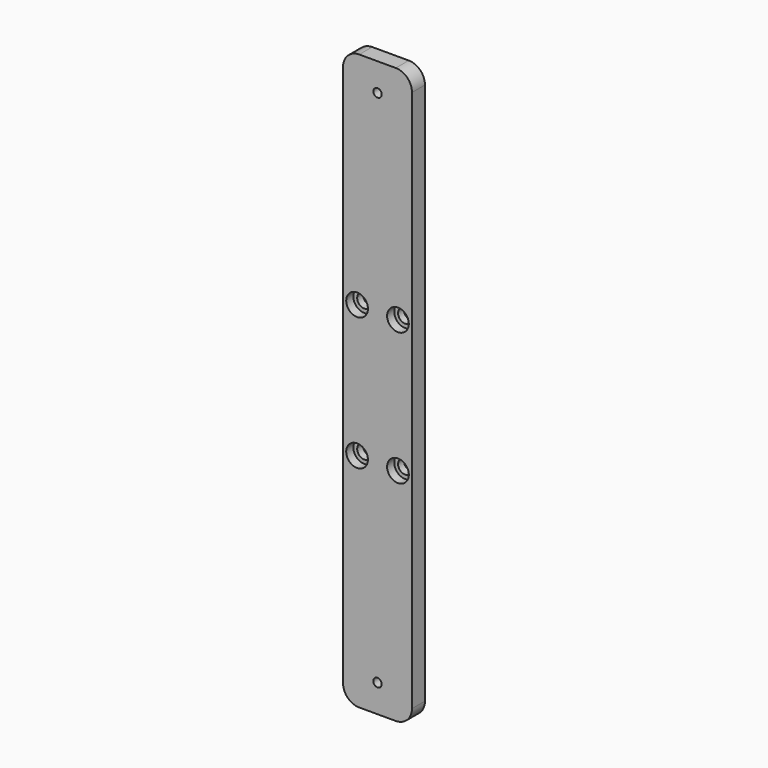
from build123d import *

# Parameters (mm, degrees)
F0_W           = 27
F0_H           = 225
F1_DEPTH       = 6.35
F2_R           = 6.35
F4_D           = 5.5
F4_CBORE_D     = 8.5
F4_CBORE_DEPTH = 3.5
F6_D           = 3.3


with BuildPart() as f1:
    # F0 (on Front) → F1 (new body)
    with BuildSketch(Plane.XZ):
        Rectangle(F0_W, F0_H)
    extrude(amount=F1_DEPTH)

    # F2
    f2_edges = [f1.edges().sort_by_distance(p)[0] for p in [
        (13.5, -3.175, 112.5),
        (-13.5, -3.175, 112.5),
        (13.5, -3.175, -112.5),
        (-13.5, -3.175, -112.5),
    ]]
    fillet(f2_edges, radius=F2_R)

    # F4 (through all)
    with Locations(Plane.XZ.offset(6.35)):
        with Locations((-8, 26), (8, 26), (-8, -26), (8, -26)):
            CounterBoreHole(F4_D / 2, F4_CBORE_D / 2, F4_CBORE_DEPTH)

    # F6 (through all)
    with Locations(Plane(origin=(0, 0, 0), x_dir=(-1, 0, 0), z_dir=(0, 1, 0))):
        with Locations((0, 101.6), (0, -101.6)):
            Hole(F6_D / 2)


solid = f1.part
